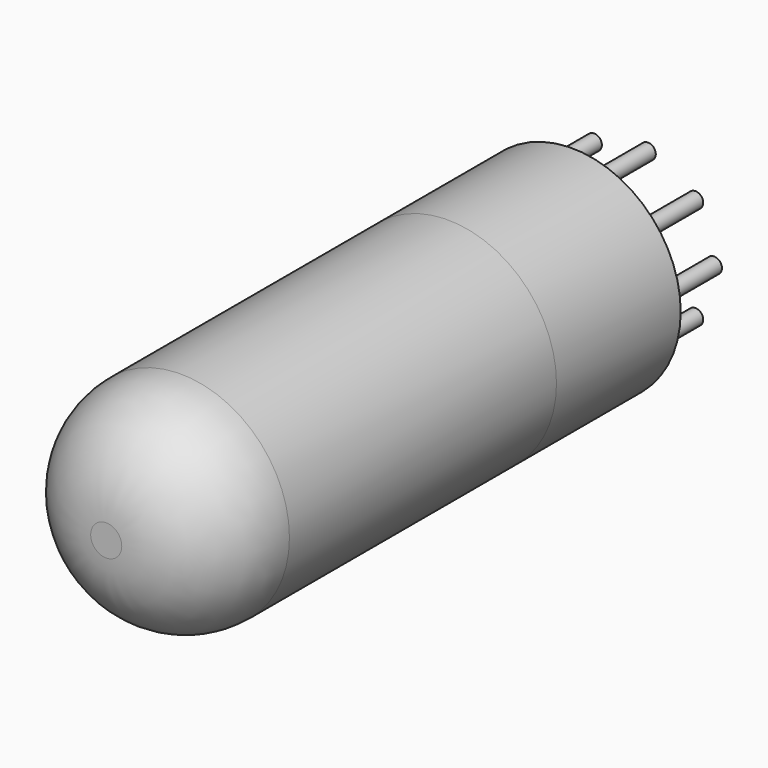
from build123d import *

# Parameters (mm, degrees)
F0_R      = 14
F1_DEPTH  = 25
F2_DEPTH  = 55
F3_R      = 12
F4_R      = 13.5
F5_DEPTH  = 45
F7_DEPTH  = 20
F8_W      = 3.9925682358
F8_H      = 13.8830037415
F9_DEPTH  = 0.5
F10_R     = 14
F11_DEPTH = 20
F12_R     = 1
F13_DEPTH = 10


with BuildPart() as f1:
    # F0 (on Front) → F1 (new body)
    with BuildSketch(Plane.XZ):
        Circle(F0_R)
    extrude(amount=F1_DEPTH)

    # F0 (on Front) → F2 (join)
    with BuildSketch(Plane.XZ):
        Circle(F0_R)
    extrude(amount=F2_DEPTH)

    # F3
    f3_edges = [f1.edges().sort_by_distance(p)[0] for p in [
        (-14, -55, 0),
    ]]
    fillet(f3_edges, radius=F3_R)

    # F4 (on face) → F5 (cut)
    with BuildSketch(Plane(origin=(0, 0, 0), x_dir=(-1, 0, 0), z_dir=(0, 1, 0))):
        Circle(F4_R)
    extrude(amount=-F5_DEPTH, mode=Mode.SUBTRACT)


with BuildPart() as f7:
    # F6 (on face) → F7 (new body)
    with BuildSketch(Plane(origin=(0, 0, 0), x_dir=(-1, 0, 0), z_dir=(0, 1, 0))):
        with BuildLine():
            Line((13.4976849867, 0.25), (-13.4976849867, 0.25))
            ThreePointArc((-13.4976849867, 0.25), (-13.5, 0), (-13.4976849867, -0.25))
            Line((-13.4976849867, -0.25), (-12.0585767334, -0.25))
            Line((-12.0585767334, -0.25), (13.4976849867, -0.25))
            ThreePointArc((13.4976849867, -0.25), (13.4994212343, -0.1250053592), (13.5, 0))
            ThreePointArc((13.5, 0), (13.4994212343, 0.1250053592), (13.4976849867, 0.25))
        make_face()
    extrude(amount=-F7_DEPTH)

    # F8 (on face) → F9 (join, symmetric)
    with BuildSketch(Plane.XY.offset(0.25)):
        with Locations((8.4014490712, -26.9415018708)):
            Rectangle(F8_W, F8_H)
        Polygon((-2.8766661417, -36.074513793), (-3.6023748107, -20), (-4.8067043235, -20), (-4.8067043235, -36.1616483377), align=None)
    extrude(amount=F9_DEPTH, both=True)


with BuildPart() as f11:
    # F10 (on face) → F11 (new body)
    with BuildSketch(Plane.XZ):
        Circle(F10_R)
    extrude(amount=-F11_DEPTH)

    # F12 (on face) → F13 (join)
    with BuildSketch(Plane(origin=(0, 20, 0), x_dir=(-1, 0, 0), z_dir=(0, 1, 0))):
        with Locations((5.1554560206, -8.9295117639)):
            Circle(F12_R)
        with Locations((9.6890879587, -3.5265396142)):
            Circle(F12_R)
        with Locations((9.6890879587, 3.5265396142)):
            Circle(F12_R)
        with Locations((5.1554560206, 8.9295117639)):
            Circle(F12_R)
        with Locations((-1.790471086, 10.1542661189)):
            Circle(F12_R)
        with Locations((-7.8986168727, 6.6277265047)):
            Circle(F12_R)
        with Locations((-10.3109120413, 0)):
            Circle(F12_R)
        with Locations((-7.8986168727, -6.6277265047)):
            Circle(F12_R)
        with Locations((-1.790471086, -10.1542661189)):
            Circle(F12_R)
    extrude(amount=F13_DEPTH)


solid = Compound([f1.part, f7.part, f11.part])
